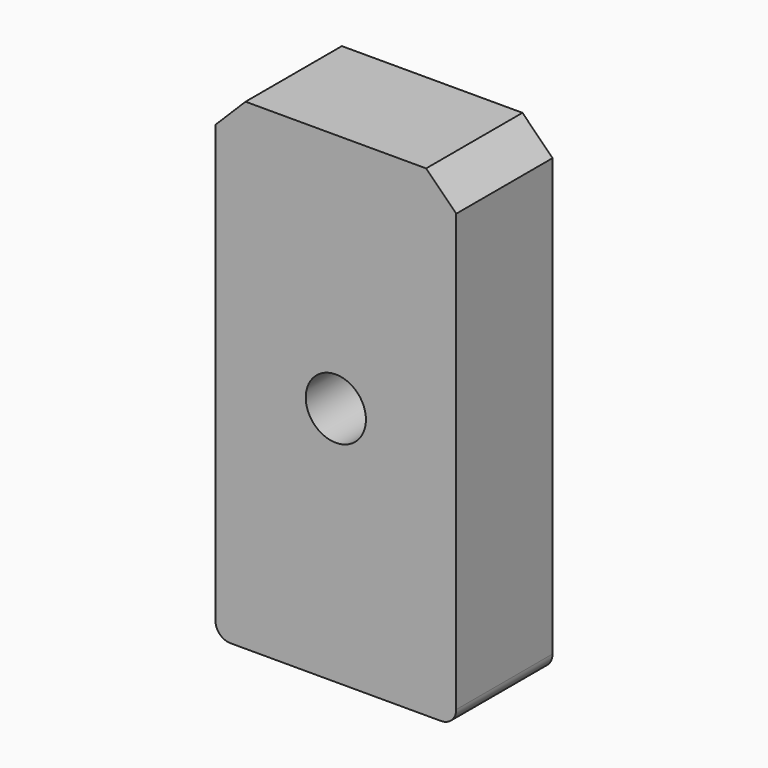
from build123d import *

# Parameters (mm, degrees)
F0_W     = 400
F0_H     = 800
F1_DEPTH = 100
F2_SIZE  = 50
F3_R     = 25
F4_R     = 50
F5_DEPTH = 230


with BuildPart() as f1:
    # F0 (on Front) → F1 (new body, symmetric)
    with BuildSketch(Plane.XZ):
        Rectangle(F0_W, F0_H)
    extrude(amount=F1_DEPTH, both=True)

    # F2
    f2_edges = [f1.edges().sort_by_distance(p)[0] for p in [
        (-200, 0, 400),
        (200, 0, 400),
    ]]
    chamfer(f2_edges, length=F2_SIZE)

    # F3
    f3_edges = [f1.edges().sort_by_distance(p)[0] for p in [
        (-200, 0, -400),
        (200, 0, -400),
    ]]
    fillet(f3_edges, radius=F3_R)

    # F4 (on face) → F5 (cut)
    with BuildSketch(Plane.XZ.offset(100)):
        Circle(F4_R)
    extrude(amount=-F5_DEPTH, mode=Mode.SUBTRACT)


solid = f1.part
